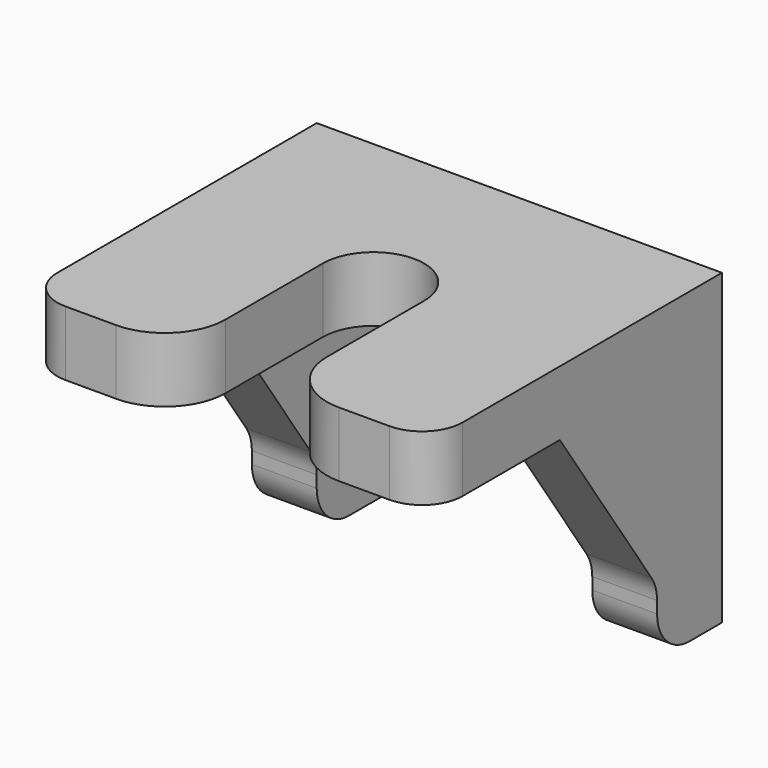
from build123d import *

# Parameters (mm, degrees)
PAD008_DEPTH            = 1.6
PAD009_DEPTH            = 1.6
LINEARPATTERN010_COUNT  = 2
LINEARPATTERN010_PITCH  = 8.4
FILLET037_R             = 1
FILLET038_R             = 1
FILLET039_R             = 1
FILLET040_R             = 1.5
BODY026_PLACEMENT_ANGLE = 90


with BuildPart() as part:
    # Sketch010 → Pad008 (new body)
    with BuildSketch(Plane.XY):
        with BuildLine():
            Line((-4.5, 5), (4.5, 5))
            Line((4.5, 5), (4.5, 1.25))
            Line((0, 1.25), (4.5, 1.25))
            ThreePointArc((0, 1.25), (-1.25, 0), (0, -1.25))
            Line((4.5, -1.25), (0, -1.25))
            Line((4.5, -1.25), (4.5, -5))
            Line((4.5, -5), (-4.5, -5))
            Line((-4.5, -5), (-4.5, 5))
        make_face()
    extrude(amount=PAD008_DEPTH)

    # Sketch011 (on DatumPlane) → Pad009 (join)
    with BuildSketch(Plane.XZ.offset(5)):
        Polygon((-4.5, 0), (-4.5, -6), (-2.5, -6), (-2.5, -4.4), (0.5, 0), align=None)
    pad009 = extrude(amount=-PAD009_DEPTH)

    # LinearPattern010: Pad009 ×2
    with Locations(*[(0, i * LINEARPATTERN010_PITCH, 0) for i in range(1, LINEARPATTERN010_COUNT)]):
        add(pad009)

    # Fillet037
    fillet037_edges = [part.edges().sort_by_distance(p)[0] for p in [
        (-2.5, -4.2, -6),
        (-2.5, 4.2, -6),
    ]]
    fillet(fillet037_edges, radius=FILLET037_R)

    # Fillet038
    fillet038_edges = [part.edges().sort_by_distance(p)[0] for p in [
        (-2.5, -4.2, -4.4),
        (-2.5, 4.2, -4.4),
    ]]
    fillet(fillet038_edges, radius=FILLET038_R)

    # Fillet039
    fillet039_edges = [part.edges().sort_by_distance(p)[0] for p in [
        (4.5, -5, 0.8),
        (4.5, 5, 0.8),
    ]]
    fillet(fillet039_edges, radius=FILLET039_R)

    # Fillet040
    fillet040_edges = [part.edges().sort_by_distance(p)[0] for p in [
        (4.5, -1.25, 0.8),
        (4.5, 1.25, 0.8),
    ]]
    fillet(fillet040_edges, radius=FILLET040_R)


with BuildPart() as part_1:
    # Body026 placement: moved
    add(part.part.moved(Location((-22.4, -32.5, 16.4))).rotate(Axis((-22.4, -32.5, 16.4), (0, 0, -1)), BODY026_PLACEMENT_ANGLE))


solid = part_1.part
